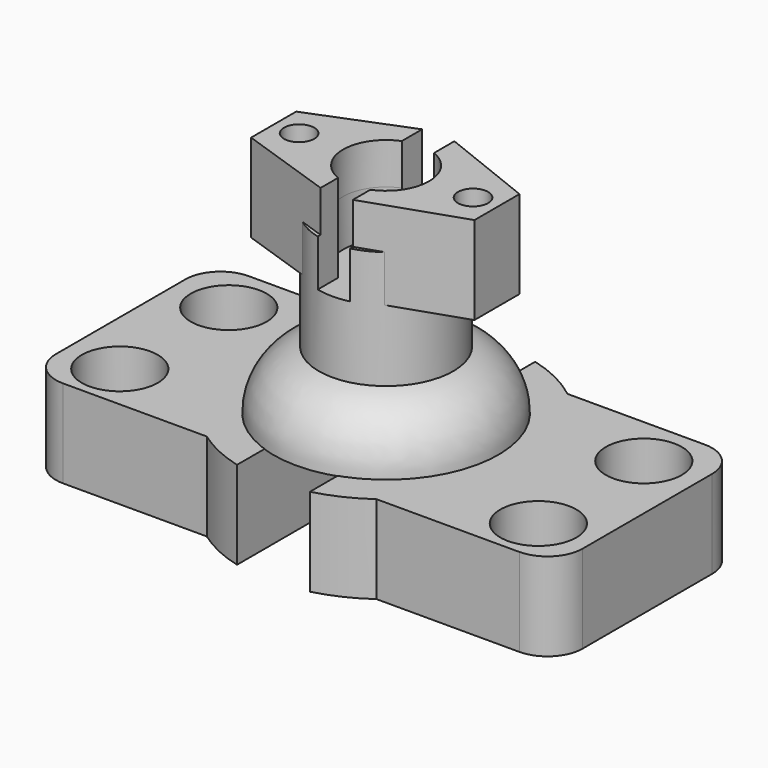
from build123d import *

# Parameters (mm, degrees)
F0_R     = 10.7898369592
F1_DEPTH = 25
F2_R     = 10
F2_2_R   = 10
F6_DEPTH = 13.25
F7_R     = 4.2969216764
F8_DEPTH = 25


with BuildPart() as f1:
    # F0 (on Top) → F1 (new body)
    with BuildSketch(Plane.XY):
        with BuildLine():
            ThreePointArc((-24.1020803701, -33.549465239), (-41.2989820766, -0.9332606445), (-25.5929826471, 32.4264727533))
            Line((-25.5929826471, 32.4264727533), (-74.9598965049, 32.4264727533))
            Line((-74.9598965049, 32.4264727533), (-74.9598965049, -33.549465239))
            Line((-74.9598965049, -33.549465239), (-24.1020803701, -33.549465239))
        make_face()
        with Locations((-59.456795454, -20.2453546226)):
            Circle(F0_R, mode=Mode.SUBTRACT)
        with Locations((-58.9572228491, 17.8275406361)):
            Circle(F0_R, mode=Mode.SUBTRACT)
        with BuildLine():
            Line((-10.3558397398, 32.4264727533), (-25.5929826471, 32.4264727533))
            ThreePointArc((-25.5929826471, 32.4264727533), (-41.2989820766, -0.9332606445), (-24.1020803701, -33.549465239))
            Line((-24.1020803701, -33.549465239), (-10.3558397398, -33.549465239))
            Line((-10.3558397398, -33.549465239), (-10.3558397398, 0))
            Line((-10.3558397398, 0), (-10.3558397398, 32.4264727533))
        make_face()
        with BuildLine():
            Line((-10.3558397398, -33.549465239), (-24.1020803701, -33.549465239))
            ThreePointArc((-24.1020803701, -33.549465239), (-17.5273651921, -37.4067957117), (-10.3558397398, -39.9904173431))
            Line((-10.3558397398, -39.9904173431), (-10.3558397398, -33.549465239))
        make_face()
        with BuildLine():
            Line((-10.3558397398, 32.4264727533), (-10.3558397398, 39.9904173431))
            ThreePointArc((-10.3558397398, 39.9904173431), (-18.367982257, 37.0012719214), (-25.5929826471, 32.4264727533))
            Line((-25.5929826471, 32.4264727533), (-10.3558397398, 32.4264727533))
        make_face()
    extrude(amount=F1_DEPTH)

    # F2
    f2_edges = [f1.edges().sort_by_distance(p)[0] for p in [
        (-74.959897, -33.549465, 12.5),
        (-74.959897, 32.426473, 12.5),
    ]]
    fillet(f2_edges, radius=F2_R)


with BuildPart() as f1b:
    # F0 (on Top) → F1, piece 2 (new body)
    with BuildSketch(Plane.XY):
        with BuildLine():
            ThreePointArc((41.3095254874, 0), (37.1733161351, 18.0172546054), (25.5929826471, 32.4264727533))
            Line((25.5929826471, 32.4264727533), (10.3558397398, 32.4264727533))
            Line((10.3558397398, 32.4264727533), (10.3558397398, 0))
            Line((10.3558397398, 0), (10.3558397398, -33.549465239))
            Line((10.3558397398, -33.549465239), (24.1020803701, -33.549465239))
            ThreePointArc((24.1020803701, -33.549465239), (36.7567844033, -18.8524718889), (41.3095254874, 0))
        make_face()
        with BuildLine():
            ThreePointArc((10.3558397398, -39.9904173431), (17.5273651921, -37.4067957117), (24.1020803701, -33.549465239))
            Line((24.1020803701, -33.549465239), (10.3558397398, -33.549465239))
            Line((10.3558397398, -33.549465239), (10.3558397398, -39.9904173431))
        make_face()
        with BuildLine():
            ThreePointArc((25.5929826471, 32.4264727533), (18.367982257, 37.0012719214), (10.3558397398, 39.9904173431))
            Line((10.3558397398, 39.9904173431), (10.3558397398, 32.4264727533))
            Line((10.3558397398, 32.4264727533), (25.5929826471, 32.4264727533))
        make_face()
        with BuildLine():
            Line((74.6791437268, 32.4264727533), (25.5929826471, 32.4264727533))
            ThreePointArc((25.5929826471, 32.4264727533), (37.1733161351, 18.0172546054), (41.3095254874, 0))
            ThreePointArc((41.3095254874, 0), (36.7567844033, -18.8524718889), (24.1020803701, -33.549465239))
            Line((24.1020803701, -33.549465239), (74.6791437268, -33.549465239))
            Line((74.6791437268, -33.549465239), (74.6791437268, 32.4264727533))
        make_face()
        with Locations((59.456795454, -20.2453546226)):
            Circle(F0_R, mode=Mode.SUBTRACT)
        with Locations((58.9572228491, 17.8275406361)):
            Circle(F0_R, mode=Mode.SUBTRACT)
    extrude(amount=F1_DEPTH)

    # F2#2
    f2_2_edges = [f1b.edges().sort_by_distance(p)[0] for p in [
        (74.679144, 32.426473, 12.5),
        (74.679144, -33.549465, 12.5),
    ]]
    fillet(f2_2_edges, radius=F2_2_R)


with BuildPart() as f4:
    # F3 (on Right) → F4 (revolve)
    with BuildSketch(Plane.YZ):
        Polygon((-19.0909095109, 24.9085966498), (0, 24.9085966498), (0, 75.2499066293), (-19.0909095109, 75.2499066293), (-19.0909095109, 41.7322925891), align=None)
        with BuildLine():
            Line((-31.9327436014, 24.9085966498), (-19.0909095109, 24.9085966498))
            Line((-19.0909095109, 24.9085966498), (-19.0909095109, 41.7322925891))
            ThreePointArc((-19.0909095109, 41.7322925891), (-28.3778652446, 35.5081442467), (-31.9327436014, 24.9085966498))
        make_face()
    revolve(axis=Axis((0, 0, 50.0792516395), (0, 0, 1)))

    # F5 (on face) → F6 (cut)
    with BuildSketch(Plane.XY.offset(75.2499066293)):
        with BuildLine():
            ThreePointArc((4.5833703873, -11.3155341328), (10.1243489985, -6.8224741974), (12.2085460567, 0))
            ThreePointArc((12.2085460567, 0), (10.1243489985, 6.8224741974), (4.5833703873, 11.3155341328))
            ThreePointArc((4.5833703873, 11.3155341328), (0, 12.2085460567), (-4.5833703873, 11.3155341328))
            ThreePointArc((-4.5833703873, 11.3155341328), (-12.2085460567, 0), (-4.5833703873, -11.3155341328))
            ThreePointArc((-4.5833703873, -11.3155341328), (0, -12.2085460567), (4.5833703873, -11.3155341328))
        make_face()
        with BuildLine():
            ThreePointArc((-4.5833703873, 11.3155341328), (0, 12.2085460567), (4.5833703873, 11.3155341328))
            Line((4.5833703873, 11.3155341328), (4.5833703873, 18.5325535705))
            ThreePointArc((4.5833703873, 18.5325535705), (0, 19.0909095109), (-4.5833703873, 18.5325535705))
            Line((-4.5833703873, 18.5325535705), (-4.5833703873, 11.3155341328))
        make_face()
        with BuildLine():
            Line((4.5833703873, -18.5325535705), (4.5833703873, -11.3155341328))
            ThreePointArc((4.5833703873, -11.3155341328), (0, -12.2085460567), (-4.5833703873, -11.3155341328))
            Line((-4.5833703873, -11.3155341328), (-4.5833703873, -18.5325535705))
            ThreePointArc((-4.5833703873, -18.5325535705), (0, -19.0909095109), (4.5833703873, -18.5325535705))
        make_face()
    extrude(amount=-F6_DEPTH, mode=Mode.SUBTRACT)

    # F7 (on face) → F8 (join)
    with BuildSketch(Plane.XY.offset(61.9999066293)):
        with BuildLine():
            Line((-4.5833703873, 11.3155341328), (-4.5833703873, 18.5325535705))
            Line((-4.5833703873, 18.5325535705), (-31.7245982587, 7.7205887064))
            Line((-31.7245982587, 7.7205887064), (-31.7245982587, -8.2820858806))
            Line((-31.7245982587, -8.2820858806), (-4.5833703873, -17.5293186675))
            Line((-4.5833703873, -17.5293186675), (-4.5833703873, -11.3155341328))
            ThreePointArc((-4.5833703873, -11.3155341328), (-12.2085460567, 0), (-4.5833703873, 11.3155341328))
        make_face()
        with Locations((-24.7058812529, 0)):
            Circle(F7_R, mode=Mode.SUBTRACT)
        with BuildLine():
            Line((31.7245982587, 7.7205887064), (4.5833703873, 18.5325535705))
            Line((4.5833703873, 18.5325535705), (4.5833703873, 11.3155341328))
            ThreePointArc((4.5833703873, 11.3155341328), (12.2085460567, 0), (4.5833703873, -11.3155341328))
            Line((4.5833703873, -11.3155341328), (4.5833703873, -17.5293186675))
            Line((4.5833703873, -17.5293186675), (31.7245982587, -8.2820858806))
            Line((31.7245982587, -8.2820858806), (31.7245982587, 7.7205887064))
        make_face()
        with Locations((24.7058812529, 0)):
            Circle(F7_R, mode=Mode.SUBTRACT)
    extrude(amount=F8_DEPTH)


solid = Compound([f1.part, f1b.part, f4.part])
